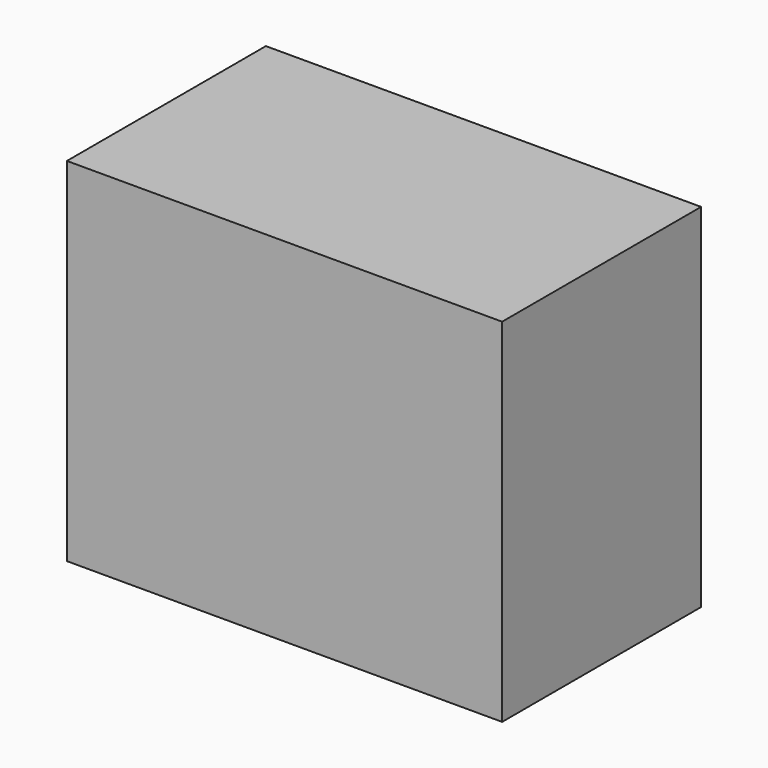
from build123d import *

# Parameters (mm, degrees)
F0_W     = 1066.8
F0_H     = 863.6
F1_DEPTH = 609.6
F2_W     = 75.707137
F2_H     = 83.061278
F3_DEPTH = 25.4


with BuildPart() as f1:
    # F0 (on Front) → F1 (new body)
    with BuildSketch(Plane.XZ):
        Rectangle(F0_W, F0_H)
    extrude(amount=-F1_DEPTH)


with BuildPart() as f3:
    # F2 (on face) → F3 (new body)
    with BuildSketch(Plane.XZ):
        with Locations((571.253569, -41.530639)):
            Rectangle(F2_W, F2_H)
    extrude(amount=F3_DEPTH)


solid = f1.part
